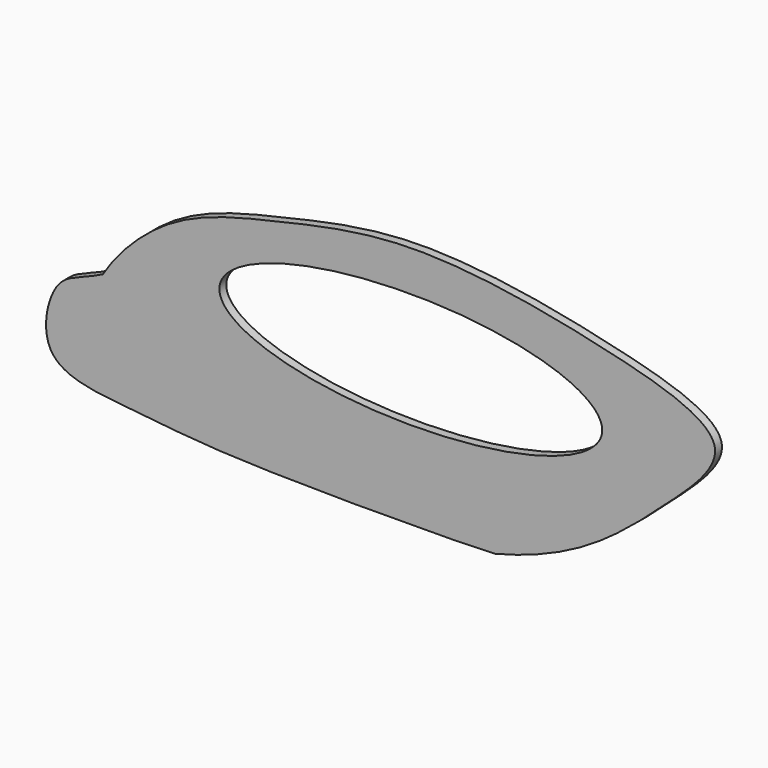
from build123d import *

# Parameters (mm, degrees)
F1_DEPTH = 30.48
F3_DEPTH = 30.4810001


with BuildPart() as f1:
    # F0 (on Front) → F1 (new body)
    with BuildSketch(Plane.XZ):
        with BuildLine():
            add(Edge.make_bspline(
                [(-2391.2942084649, 729.973194215), (-2341.4973457452, 813.6407654218), (-2154.1568383939, 1008.0987301075), (-1770.9575668559, 1096.6094199675), (-1298.2707338833, 1207.5087574452), (-642.1446750089, 1095.2028736039), (-89.5847871613, 935.220946296), (-397.1696994086, 659.6746321298), (-551.7424300477, 518.0812525938), (-771.5858029913, 367.59974922), (-1000.2681137762, 309.6621262789)],
                knots=[0, 0, 0, 0, 0.1149278514, 0.2371888421, 0.3730110968, 0.5398318825, 0.6658771649, 0.7681530199, 0.8607377605, 1, 1, 1, 1], degree=3))
            add(Edge.make_bspline(
                [(-1000.2681137762, 309.6621262789), (-1099.7769340013, 302.9644172253), (-1949.425471613, 296.0084386307), (-2261.1192620777, 343.2307887257), (-2634.9224740489, 368.4249908436), (-2569.542500697, 688.167712549), (-2469.4607751534, 690.3654634491), (-2391.2942084649, 729.973194215)],
                knots=[0, 0, 0, 0, 0.3138093304, 0.5283682856, 0.7037227593, 0.8578877015, 1, 1, 1, 1], degree=3))
        make_face()
    extrude(amount=F1_DEPTH)

    # F2 (on face) → F3 (cut, through all)
    with BuildSketch(Plane.XZ.offset(30.48)):
        with BuildLine():
            add(Edge.make_bspline(
                [(-1977.8580665588, 818.9667463303), (-1977.8580665588, 464.1765232851), (-959.4422578812, 641.5716348077), (58.9735507965, 818.9667463303), (-959.4422578812, 996.3618578528), (-1977.8580665588, 1173.7569693754), (-1977.8580665588, 818.9667463303)],
                knots=[0, 0, 0, 2.0943951024, 2.0943951024, 4.1887902048, 4.1887902048, 6.2831853072, 6.2831853072, 6.2831853072], degree=2, weights=[1, 0.5, 1, 0.5, 1, 0.5, 1]))
        make_face()
    extrude(amount=-F3_DEPTH, mode=Mode.SUBTRACT)


solid = f1.part
